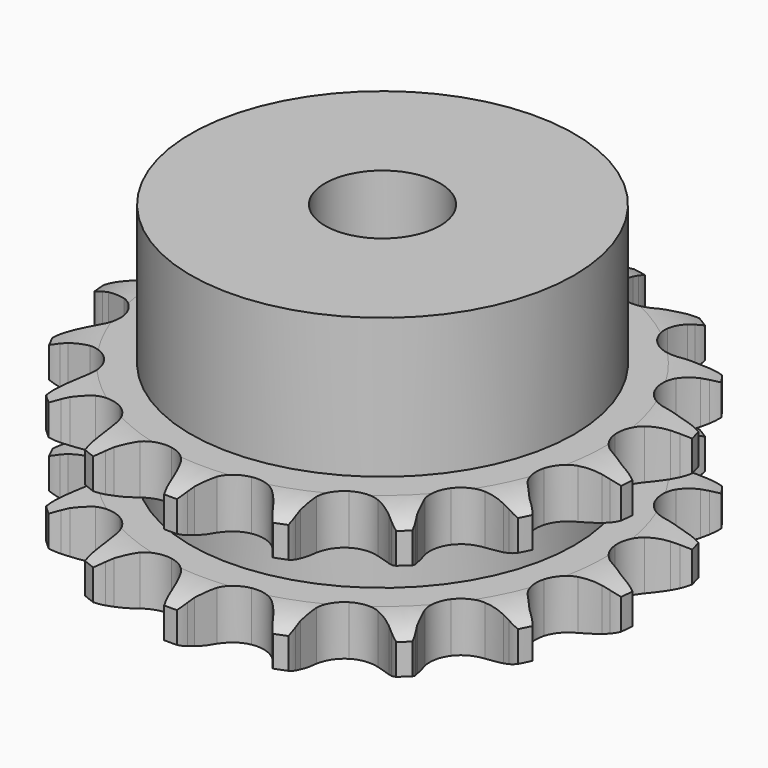
from build123d import *

# Parameters (mm, degrees)
PAD_DEPTH         = 15.4
SKETCH001_R       = 20
PAD001_DEPTH      = 30
SKETCH002_R       = 6
POCKET_DEPTH      = 0.001
POCKET_DEPTH_BACK = 30.001


with BuildPart() as part:
    # Sprocket → Pad (new body)
    with BuildSketch(Plane.XY):
        with BuildLine():
            ThreePointArc((-5.280087, 28.245969), (-4.503345, 27.401621), (-3.928208, 26.408912))
            Line((-3.928208, 26.408912), (-3.626974, 25.726681))
            ThreePointArc((-3.626974, 25.726681), (-3.134942, 24.781496), (-2.52599, 23.907054))
            ThreePointArc((-2.52599, 23.907054), (-1.402066, 23.009743), (0, 22.68946))
            ThreePointArc((0, 22.68946), (1.402066, 23.009743), (2.52599, 23.907054))
            ThreePointArc((2.52599, 23.907054), (3.134942, 24.781496), (3.626974, 25.726681))
            Line((3.626974, 25.726681), (3.928208, 26.408912))
            ThreePointArc((3.928208, 26.408912), (4.503345, 27.401621), (5.280087, 28.245969))
            ThreePointArc((5.280087, 28.245969), (5.699363, 27.178046), (5.877054, 26.044609))
            Line((5.877054, 26.044609), (5.911497, 25.299629))
            ThreePointArc((5.911497, 25.299629), (6.028863, 24.240528), (6.280809, 23.205157))
            ThreePointArc((6.280809, 23.205157), (7.00469, 21.962431), (8.196378, 21.157292))
            ThreePointArc((8.196378, 21.157292), (9.619466, 20.949462), (10.99164, 21.380171))
            Line((10.99164, 21.380171), (12.675601, 22.679201))
            ThreePointArc((12.675601, 22.679201), (12.933353, 22.948792), (13.202944, 23.206544))
            ThreePointArc((13.202944, 23.206544), (14.097851, 23.924454), (15.127155, 24.431195))
            ThreePointArc((15.127155, 24.431195), (15.13234, 23.283926), (14.888588, 22.162838))
            Line((14.888588, 22.162838), (14.651587, 21.455723))
            ThreePointArc((14.651587, 21.455723), (14.378436, 20.425743), (14.239349, 19.369275))
            ThreePointArc((14.239349, 19.369275), (14.465424, 17.948971), (15.285791, 16.767714))
            ThreePointArc((15.285791, 16.767714), (16.537703, 16.059839), (17.972807, 15.965778))
            Line((17.972807, 15.965778), (20.012319, 16.56877))
            ThreePointArc((20.012319, 16.56877), (20.350053, 16.727045), (20.69455, 16.870004))
            ThreePointArc((20.69455, 16.870004), (21.788364, 17.216158), (22.931218, 17.316852))
            ThreePointArc((22.931218, 17.316852), (22.521611, 16.245182), (21.889335, 15.287853))
            Line((21.889335, 15.287853), (21.412899, 14.714102))
            ThreePointArc((21.412899, 14.714102), (20.786121, 13.852348), (20.274787, 12.917465))
            ThreePointArc((20.274787, 12.917465), (19.972523, 11.511403), (20.310772, 10.113563))
            ThreePointArc((20.310772, 10.113563), (21.222432, 9.001247), (22.526648, 8.395118))
            Line((22.526648, 8.395118), (24.646261, 8.220634))
            ThreePointArc((24.646261, 8.220634), (25.018365, 8.246218), (25.391241, 8.255077))
            ThreePointArc((25.391241, 8.255077), (26.536238, 8.182724), (27.638292, 7.863772))
            ThreePointArc((27.638292, 7.863772), (26.869214, 7.012437), (25.933806, 6.348158))
            Line((25.933806, 6.348158), (25.28228, 5.98526))
            ThreePointArc((25.28228, 5.98526), (24.386526, 5.408117), (23.572002, 4.721079))
            ThreePointArc((23.572002, 4.721079), (22.782221, 3.519157), (22.592671, 2.093519))
            ThreePointArc((22.592671, 2.093519), (23.040954, 0.726986), (24.03814, -0.30935))
            Line((24.03814, -0.30935), (25.95159, -1.237743))
            ThreePointArc((25.95159, -1.237743), (26.307808, -1.348306), (26.658705, -1.474744))
            ThreePointArc((26.658705, -1.474744), (27.700246, -1.955832), (28.612662, -2.651354))
            ThreePointArc((28.612662, -2.651354), (27.58798, -3.167377), (26.475774, -3.44889))
            Line((26.475774, -3.44889), (25.73715, -3.551924))
            ThreePointArc((25.73715, -3.551924), (24.693396, -3.766511), (23.685688, -4.112914))
            ThreePointArc((23.685688, -4.112914), (22.515055, -4.948372), (21.823305, -6.209266))
            ThreePointArc((21.823305, -6.209266), (21.747667, -7.645459), (22.303148, -8.972038))
            Line((22.303148, -8.972038), (23.752013, -10.528957))
            ThreePointArc((23.752013, -10.528957), (24.044236, -10.760735), (24.325763, -11.005393))
            ThreePointArc((24.325763, -11.005393), (25.123182, -11.830242), (25.722733, -12.808399))
            ThreePointArc((25.722733, -12.808399), (24.580837, -12.919419), (23.442041, -12.780147))
            Line((23.442041, -12.780147), (22.716074, -12.609401))
            ThreePointArc((22.716074, -12.609401), (21.665285, -12.43245), (20.60049, -12.391435))
            ThreePointArc((20.60049, -12.391435), (19.207105, -12.747595), (18.10658, -13.673455))
            ThreePointArc((18.10658, -13.673455), (17.517238, -14.985341), (17.555992, -16.423002))
            Line((17.555992, -16.423002), (18.344594, -18.398176))
            ThreePointArc((18.344594, -18.398176), (18.533357, -18.719866), (18.707492, -19.049703))
            ThreePointArc((18.707492, -19.049703), (19.153094, -20.106912), (19.358807, -21.2356))
            ThreePointArc((19.358807, -21.2356), (18.253915, -20.926622), (17.24233, -20.385374))
            Line((17.24233, -20.385374), (16.627067, -19.963909))
            ThreePointArc((16.627067, -19.963909), (15.711158, -19.419318), (14.733082, -18.996425))
            ThreePointArc((14.733082, -18.996425), (13.30513, -18.825185), (11.944462, -19.290968))
            ThreePointArc((11.944462, -19.290968), (10.921008, -20.301371), (10.437802, -21.65595))
            Line((10.437802, -21.65595), (10.459637, -23.78262))
            ThreePointArc((10.459637, -23.78262), (10.519445, -24.150776), (10.56267, -24.521244))
            ThreePointArc((10.56267, -24.521244), (10.596273, -25.668033), (10.380367, -26.794815))
            ThreePointArc((10.380367, -26.794815), (9.461701, -26.107568), (8.713948, -25.237443))
            Line((8.713948, -25.237443), (8.292483, -24.62218))
            ThreePointArc((8.292483, -24.62218), (7.635151, -23.7835), (6.87589, -23.035842))
            ThreePointArc((6.87589, -23.035842), (5.606223, -22.36033), (4.169177, -22.303129))
            ThreePointArc((4.169177, -22.303129), (2.849836, -22.875588), (1.909929, -23.964141))
            Line((1.909929, -23.964141), (1.162047, -25.95509))
            ThreePointArc((1.162047, -25.95509), (1.084824, -26.319989), (0.991302, -26.681056))
            ThreePointArc((0.991302, -26.681056), (0.608368, -27.762543), (0, -28.735242))
            ThreePointArc((0, -28.735242), (-0.608368, -27.762543), (-0.991302, -26.681056))
            Line((-0.991302, -26.681056), (-1.162047, -25.95509))
            ThreePointArc((-1.162047, -25.95509), (-1.472025, -24.935588), (-1.909929, -23.964141))
            ThreePointArc((-1.909929, -23.964141), (-2.849836, -22.875588), (-4.169177, -22.303129))
            ThreePointArc((-4.169177, -22.303129), (-5.606223, -22.36033), (-6.87589, -23.035842))
            Line((-6.87589, -23.035842), (-8.292483, -24.62218))
            ThreePointArc((-8.292483, -24.62218), (-8.496309, -24.934543), (-8.713948, -25.237443))
            ThreePointArc((-8.713948, -25.237443), (-9.461701, -26.107568), (-10.380367, -26.794815))
            ThreePointArc((-10.380367, -26.794815), (-10.596273, -25.668033), (-10.56267, -24.521244))
            Line((-10.56267, -24.521244), (-10.459637, -23.78262))
            ThreePointArc((-10.459637, -23.78262), (-10.380395, -22.719986), (-10.437802, -21.65595))
            ThreePointArc((-10.437802, -21.65595), (-10.921008, -20.301371), (-11.944462, -19.290968))
            ThreePointArc((-11.944462, -19.290968), (-13.30513, -18.825185), (-14.733082, -18.996425))
            Line((-14.733082, -18.996425), (-16.627067, -19.963909))
            ThreePointArc((-16.627067, -19.963909), (-16.929968, -20.181548), (-17.24233, -20.385374))
            ThreePointArc((-17.24233, -20.385374), (-18.253915, -20.926622), (-19.358807, -21.2356))
            ThreePointArc((-19.358807, -21.2356), (-19.153094, -20.106912), (-18.707492, -19.049703))
            Line((-18.707492, -19.049703), (-18.344594, -18.398176))
            ThreePointArc((-18.344594, -18.398176), (-17.886836, -17.435925), (-17.555992, -16.423002))
            ThreePointArc((-17.555992, -16.423002), (-17.517238, -14.985341), (-18.10658, -13.673455))
            ThreePointArc((-18.10658, -13.673455), (-19.207105, -12.747595), (-20.60049, -12.391435))
            Line((-20.60049, -12.391435), (-22.716074, -12.609401))
            ThreePointArc((-22.716074, -12.609401), (-23.077141, -12.702923), (-23.442041, -12.780147))
            ThreePointArc((-23.442041, -12.780147), (-24.580837, -12.919419), (-25.722733, -12.808399))
            ThreePointArc((-25.722733, -12.808399), (-25.123182, -11.830242), (-24.325763, -11.005393))
            Line((-24.325763, -11.005393), (-23.752013, -10.528957))
            ThreePointArc((-23.752013, -10.528957), (-22.977561, -9.797046), (-22.303148, -8.972038))
            ThreePointArc((-22.303148, -8.972038), (-21.747667, -7.645459), (-21.823305, -6.209266))
            ThreePointArc((-21.823305, -6.209266), (-22.515055, -4.948372), (-23.685688, -4.112914))
            Line((-23.685688, -4.112914), (-25.73715, -3.551924))
            ThreePointArc((-25.73715, -3.551924), (-26.107618, -3.508698), (-26.475774, -3.44889))
            ThreePointArc((-26.475774, -3.44889), (-27.58798, -3.167377), (-28.612662, -2.651354))
            ThreePointArc((-28.612662, -2.651354), (-27.700246, -1.955832), (-26.658705, -1.474744))
            Line((-26.658705, -1.474744), (-25.95159, -1.237743))
            ThreePointArc((-25.95159, -1.237743), (-24.965038, -0.835021), (-24.03814, -0.30935))
            ThreePointArc((-24.03814, -0.30935), (-23.040954, 0.726986), (-22.592671, 2.093519))
            ThreePointArc((-22.592671, 2.093519), (-22.782221, 3.519157), (-23.572002, 4.721079))
            Line((-23.572002, 4.721079), (-25.28228, 5.98526))
            ThreePointArc((-25.28228, 5.98526), (-25.612117, 6.159396), (-25.933806, 6.348158))
            ThreePointArc((-25.933806, 6.348158), (-26.869214, 7.012437), (-27.638292, 7.863772))
            ThreePointArc((-27.638292, 7.863772), (-26.536238, 8.182724), (-25.391241, 8.255077))
            Line((-25.391241, 8.255077), (-24.646261, 8.220634))
            ThreePointArc((-24.646261, 8.220634), (-23.580849, 8.239778), (-22.526648, 8.395118))
            ThreePointArc((-22.526648, 8.395118), (-21.222432, 9.001247), (-20.310772, 10.113563))
            ThreePointArc((-20.310772, 10.113563), (-19.972523, 11.511403), (-20.274787, 12.917465))
            Line((-20.274787, 12.917465), (-21.412899, 14.714102))
            ThreePointArc((-21.412899, 14.714102), (-21.657557, 14.995629), (-21.889335, 15.287853))
            ThreePointArc((-21.889335, 15.287853), (-22.521611, 16.245182), (-22.931218, 17.316852))
            ThreePointArc((-22.931218, 17.316852), (-21.788364, 17.216158), (-20.69455, 16.870004))
            Line((-20.69455, 16.870004), (-20.012319, 16.56877))
            ThreePointArc((-20.012319, 16.56877), (-19.011936, 16.20175), (-17.972807, 15.965778))
            ThreePointArc((-17.972807, 15.965778), (-16.537703, 16.059839), (-15.285791, 16.767714))
            ThreePointArc((-15.285791, 16.767714), (-14.465424, 17.948971), (-14.239349, 19.369275))
            Line((-14.239349, 19.369275), (-14.651587, 21.455723))
            ThreePointArc((-14.651587, 21.455723), (-14.778025, 21.80662), (-14.888588, 22.162838))
            ThreePointArc((-14.888588, 22.162838), (-15.13234, 23.283926), (-15.127155, 24.431195))
            ThreePointArc((-15.127155, 24.431195), (-14.097851, 23.924454), (-13.202944, 23.206544))
            Line((-13.202944, 23.206544), (-12.675601, 22.679201))
            ThreePointArc((-12.675601, 22.679201), (-11.875355, 21.975585), (-10.99164, 21.380171))
            ThreePointArc((-10.99164, 21.380171), (-9.619466, 20.949462), (-8.196378, 21.157292))
            ThreePointArc((-8.196378, 21.157292), (-7.00469, 21.962431), (-6.280809, 23.205157))
            Line((-6.280809, 23.205157), (-5.911497, 25.299629))
            ThreePointArc((-5.911497, 25.299629), (-5.902638, 25.672506), (-5.877054, 26.044609))
            ThreePointArc((-5.877054, 26.044609), (-5.699363, 27.178046), (-5.280087, 28.245969))
        make_face()
    extrude(amount=PAD_DEPTH)

    # Sketch → Groove (revolve, cut)
    with BuildSketch(Plane.XZ):
        with BuildLine():
            ThreePointArc((23.291101, 0), (25.527169, 0.253206), (27.65, 1))
            Line((27.65, 1), (27.65, 4.2))
            ThreePointArc((27.65, 4.2), (25.527169, 4.946794), (23.291101, 5.2))
            Line((20, 5.2), (23.291101, 5.2))
            Line((20, 10.2), (20, 5.2))
            Line((23.291101, 10.2), (20, 10.2))
            ThreePointArc((23.291101, 10.2), (25.527169, 10.453206), (27.65, 11.2))
            Line((27.65, 11.2), (27.65, 14.4))
            ThreePointArc((27.65, 14.4), (25.527169, 15.146794), (23.291101, 15.4))
            Line((23.291101, 15.4), (33.291101, 15.4))
            Line((33.291101, 15.4), (33.291101, 0))
            Line((23.291101, 0), (33.291101, 0))
        make_face()
    revolve(axis=Axis((0, 0, 0), (0, 0, 1)), mode=Mode.SUBTRACT)

    # Sketch001 → Pad001 (join)
    with BuildSketch(Plane.XY):
        Circle(SKETCH001_R)
    extrude(amount=PAD001_DEPTH)

    # Sketch002 → Pocket (cut, two sides)
    with BuildSketch(Plane.XY) as pocket_sk:
        Circle(SKETCH002_R)
    extrude(amount=-POCKET_DEPTH, mode=Mode.SUBTRACT)
    extrude(pocket_sk.sketch, amount=POCKET_DEPTH_BACK, mode=Mode.SUBTRACT)


solid = part.part
